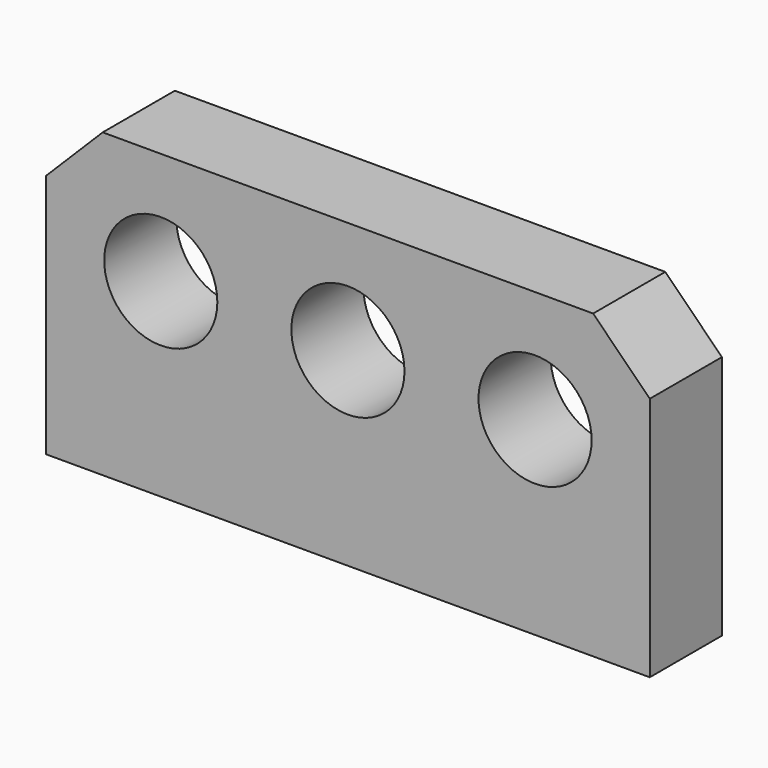
from build123d import *

# Parameters (mm, degrees)
F0_R     = 1.18999
F1_DEPTH = 1.89738


with BuildPart() as f1:
    # F0 (on Front) → F1 (new body)
    with BuildSketch(Plane.XZ):
        Polygon((-40.20383, 11.970929), (-50.52131, 11.970929), (-51.71257, 10.779669), (-51.71257, 5.620929), (-39.01257, 5.620929), (-39.01257, 10.779669), align=None)
        with Locations((-49.29957, 9.61068)):
            Circle(F0_R, mode=Mode.SUBTRACT)
        with Locations((-45.36257, 9.61068)):
            Circle(F0_R, mode=Mode.SUBTRACT)
        with Locations((-41.42557, 9.61068)):
            Circle(F0_R, mode=Mode.SUBTRACT)
    extrude(amount=F1_DEPTH)


solid = f1.part
